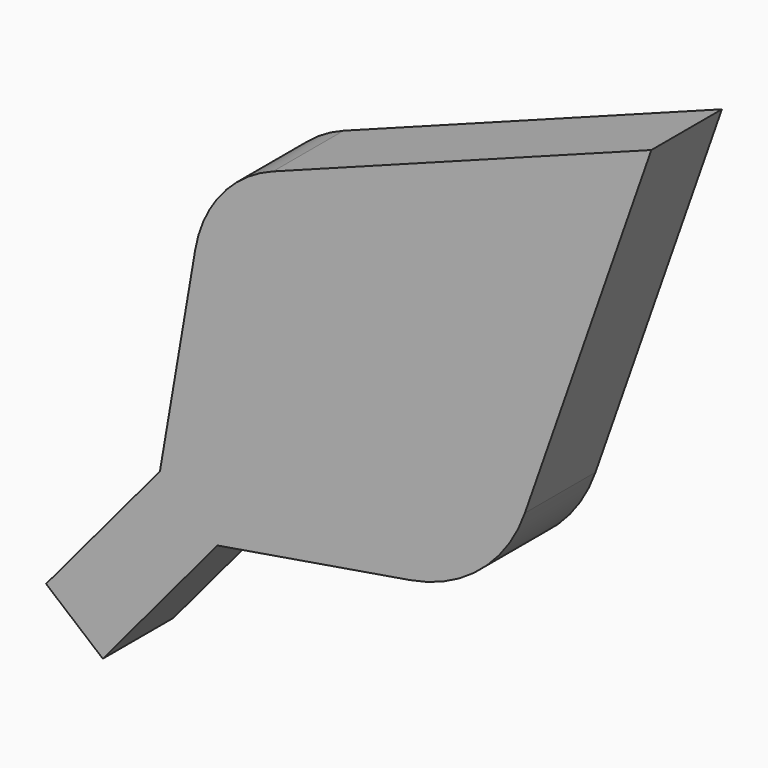
from build123d import *

# Parameters (mm, degrees)
F1_DEPTH = 4.572


with BuildPart() as f1:
    # F0 (on Front) → F1 (new body)
    with BuildSketch(Plane.XZ):
        with BuildLine():
            Line((1.83182, 10.716404), (0, 0))
            Line((0, 0), (2.980503, -2.411659))
            Line((2.980503, -2.411659), (12.981627, -0.742089))
            ThreePointArc((12.981627, -0.742089), (16.633049, 0.943438), (18.917865, 4.253046))
            Line((18.917865, 4.253046), (25.470812, 22.94586))
            Line((25.470812, 22.94586), (5.861357, 15.592153))
            ThreePointArc((5.861357, 15.592153), (3.196287, 13.691717), (1.83182, 10.716404))
        make_face()
        Polygon((2.980503, -2.411659), (0, 0), (-5.900018, -7.051241), (-2.959986, -9.511268), align=None)
    extrude(amount=F1_DEPTH)


solid = f1.part
